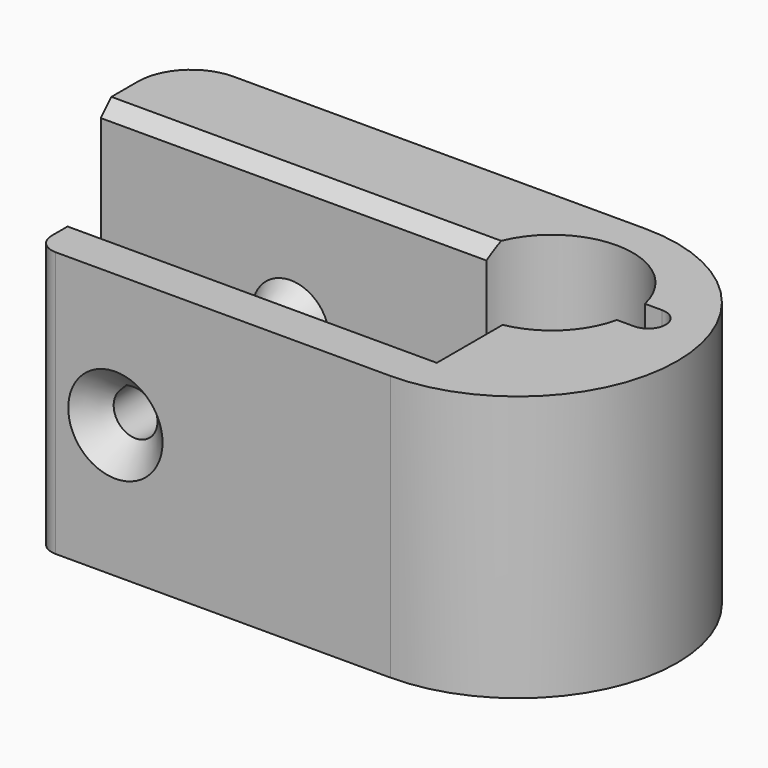
from build123d import *

# Parameters (mm, degrees)
PAD_DEPTH       = 20
POCKET_DEPTH    = 12
SKETCH002_R     = 2.9
SKETCH003_R     = 1.9
SKETCH004_R     = 2.9
SKETCH005_R     = 1.9
POCKET001_DEPTH = 24.001
POCKET002_DEPTH = 3
SKETCH012_R     = 3.55
SKETCH013_R     = 1.5
CHAMFER_SIZE    = 0.5
CHAMFER001_SIZE = 1


with BuildPart() as part:
    # Sketch → Pad (new body)
    with BuildSketch(Plane.XY):
        with BuildLine():
            ThreePointArc((35, 0), (47, 12), (35, 24))
            Line((35, 24), (4, 24))
            ThreePointArc((4, 24), (1.171573, 22.828427), (0, 20))
            Line((0, 20), (0, 16.5))
            Line((0, 16.5), (29.040134, 16.5))
            ThreePointArc((40.955468, 16.52), (34.989761, 21.299991), (29.040134, 16.5))
            Line((40.955468, 16.52), (42.255468, 16.52))
            ThreePointArc((42.255468, 13.88), (43.575468, 15.2), (42.255468, 16.52))
            Line((40.955468, 13.88), (42.255468, 13.88))
            ThreePointArc((29.040134, 13.9), (34.989761, 9.100009), (40.955468, 13.88))
            Line((24.140134, 9), (29.040134, 13.9))
            Line((8.3, 9), (24.140134, 9))
            Line((8.3, 1.5), (8.3, 9))
            ThreePointArc((8.3, 1.5), (8.73934, 0.43934), (9.8, 0))
            Line((35, 0), (9.8, 0))
        make_face()
    extrude(amount=PAD_DEPTH)

    # Sketch001 → Pocket (cut)
    with BuildSketch(Plane.XZ.offset(-4)):
        with BuildLine():
            Line((17.2, 10), (17.2, 4))
            Line((17.2, 4), (35.1, 4))
            Line((35.1, 4), (35.1, 20))
            Line((35.1, 20), (0, 20))
            Line((0, 20), (0, 4))
            Line((0, 4), (11.4, 4))
            Line((11.4, 4), (11.4, 10))
            ThreePointArc((17.2, 10), (14.3, 12.9), (11.4, 10))
        make_face()
    extrude(amount=-POCKET_DEPTH, mode=Mode.SUBTRACT)

    # Sketch002 → AdditiveLoft section 0
    with BuildSketch(Plane.XZ.offset(-9)):
        with Locations((14.3, 10)):
            Circle(SKETCH002_R)
    # Sketch003 → AdditiveLoft section 1
    with BuildSketch(Plane.XZ.offset(-10.75)):
        with Locations((14.3, 10)):
            Circle(SKETCH003_R)
    loft()

    # Sketch004 → AdditiveLoft001 section 0
    with BuildSketch(Plane.XZ.offset(-16.5)):
        with Locations((14.3, 10)):
            Circle(SKETCH004_R)
    # Sketch005 → AdditiveLoft001 section 1
    with BuildSketch(Plane.XZ.offset(-14.75)):
        with Locations((14.3, 10)):
            Circle(SKETCH005_R)
    loft()

    # Sketch006 → AdditiveLoft002 section 0
    with BuildSketch(Plane.XZ.offset(-9)):
        with BuildLine():
            ThreePointArc((11.4, 6), (14.3, 5.059352), (17.2, 6))
            Line((17.2, 6), (17.2, 3.5))
            ThreePointArc((11.4, 3.5), (14.3, 2.882416), (17.2, 3.5))
            Line((11.4, 6), (11.4, 3.5))
        make_face()
    # Sketch007 → AdditiveLoft002 section 1
    with BuildSketch(Plane.XZ.offset(-9.5)):
        with BuildLine():
            ThreePointArc((12.7, 5), (14.3, 4.750238), (15.9, 5))
            Line((15.9, 5), (15.9, 4.5))
            ThreePointArc((12.7, 4.5), (14.3, 4.271999), (15.9, 4.5))
            Line((12.7, 5), (12.7, 4.5))
        make_face()
    loft()

    # Sketch008 → AdditiveLoft003 section 0
    with BuildSketch(Plane.XZ.offset(-16.5)):
        with BuildLine():
            ThreePointArc((11.4, 6), (14.3, 5.059352), (17.2, 6))
            Line((17.2, 6), (17.2, 3.5))
            ThreePointArc((11.4, 3.5), (14.3, 2.882416), (17.2, 3.5))
            Line((11.4, 6), (11.4, 3.5))
        make_face()
    # Sketch009 → AdditiveLoft003 section 1
    with BuildSketch(Plane.XZ.offset(-16)):
        with BuildLine():
            ThreePointArc((12.7, 5), (14.3, 4.750238), (15.9, 5))
            Line((15.9, 5), (15.9, 4.5))
            ThreePointArc((12.7, 4.5), (14.3, 4.271999), (15.9, 4.5))
            Line((12.7, 5), (12.7, 4.5))
        make_face()
    loft()

    # Sketch010 → Pocket001 (cut, through all)
    with BuildSketch(Plane.XZ):
        with BuildLine():
            ThreePointArc((13.133274, 11.166726), (14.3, 8.35), (15.466726, 11.166726))
            Line((15.466726, 11.166726), (14.8, 11.833452))
            Line((13.8, 11.833452), (14.8, 11.833452))
            Line((13.133274, 11.166726), (13.8, 11.833452))
        make_face()
    extrude(amount=-POCKET001_DEPTH, mode=Mode.SUBTRACT)

    # Sketch011 → Pocket002 (cut)
    with BuildSketch(Plane.XZ.offset(-24)):
        Polygon((11.55, 11.587713), (11.55, 8.412287), (14.3, 6.824574), (17.05, 8.412287), (17.05, 11.587713), (14.3, 13.175426), align=None)
    extrude(amount=POCKET002_DEPTH, mode=Mode.SUBTRACT)

    # Sketch012 → SubtractiveLoft section 0
    with BuildSketch(Plane.XZ):
        with Locations((14.3, 10)):
            Circle(SKETCH012_R)
    # Sketch013 → SubtractiveLoft section 1
    with BuildSketch(Plane.XZ.offset(-2.05)):
        with Locations((14.3, 10)):
            Circle(SKETCH013_R)
    loft(mode=Mode.SUBTRACT)

    # Chamfer
    chamfer_edges = [part.edges().sort_by_distance(p)[0] for p in [
        (15.675, 24, 7.61843),
        (17.05, 24, 10),
        (15.675, 24, 12.38157),
        (12.925, 24, 12.38157),
        (11.55, 24, 10),
        (12.925, 24, 7.61843),
    ]]
    chamfer(chamfer_edges, length=CHAMFER_SIZE)

    # Chamfer001
    chamfer001_edges = [part.edges().sort_by_distance(p)[0] for p in [
        (21.7, 4, 20),
        (35.1, 6.55041, 20),
        (14.520067, 16.5, 20),
    ]]
    chamfer(chamfer001_edges, length=CHAMFER001_SIZE)


solid = part.part
